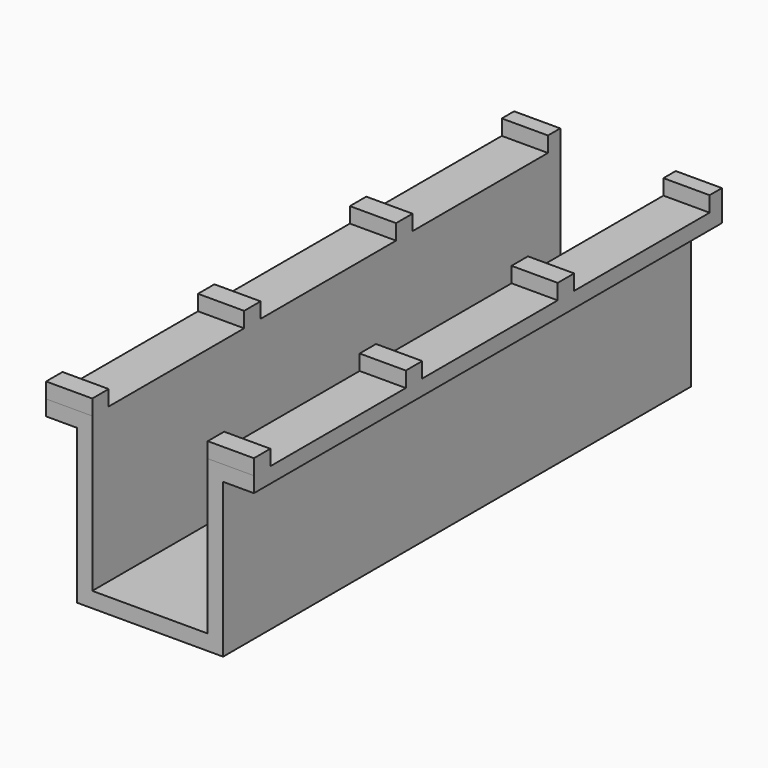
from build123d import *

# Parameters (mm, degrees)
F1_DEPTH      = 100
F2_W          = 3
F2_H          = 1.333333
F2_H_2        = 1.333334
F3_DEPTH      = 1
F4_W          = 23.250002
F4_H          = 62
F5_DEPTH      = 1.001
F5_DEPTH_BACK = 11.001


with BuildPart() as f1:
    # F0 (on Front) → F1 (new body)
    with BuildSketch(Plane.XZ):
        Polygon((3, 0), (0, 0), (0, -1), (2, -1), (2, -11), (11.5, -11), (11.5, -1), (13.5, -1), (13.5, 0), (10.5, 0), (10.5, -10), (3, -10), align=None)
    extrude(amount=F1_DEPTH)

    # F2 (on face) → F3 (join)
    with BuildSketch(Plane.XY):
        with Locations((1.5, -0.666666)):
            Rectangle(F2_W, F2_H)
        with Locations((12, -0.666666)):
            Rectangle(F2_W, F2_H)
        with Locations((1.5, -13)):
            Rectangle(F2_W, F2_H_2)
        with Locations((12, -13)):
            Rectangle(F2_W, F2_H_2)
        with Locations((1.5, -25.333334)):
            Rectangle(F2_W, F2_H)
        with Locations((12, -25.333334)):
            Rectangle(F2_W, F2_H)
        with Locations((1.5, -37.666666)):
            Rectangle(F2_W, F2_H)
        with Locations((12, -37.666666)):
            Rectangle(F2_W, F2_H)
        with Locations((1.5, -50)):
            Rectangle(F2_W, F2_H_2)
        with Locations((12, -50)):
            Rectangle(F2_W, F2_H_2)
        with Locations((1.5, -62.333333)):
            Rectangle(F2_W, F2_H)
        with Locations((12, -62.333333)):
            Rectangle(F2_W, F2_H)
        with Locations((1.5, -74.666666)):
            Rectangle(F2_W, F2_H)
        with Locations((12, -74.666666)):
            Rectangle(F2_W, F2_H)
        with Locations((1.5, -87)):
            Rectangle(F2_W, F2_H_2)
        with Locations((12, -87)):
            Rectangle(F2_W, F2_H_2)
        with Locations((1.5, -99.333333)):
            Rectangle(F2_W, F2_H)
        with Locations((12, -99.333333)):
            Rectangle(F2_W, F2_H)
    extrude(amount=F3_DEPTH)

    # F4 (on Top) → F5 (cut, two sides)
    with BuildSketch(Plane.XY) as f5_sk:
        with Locations((11.625001, -31)):
            Rectangle(F4_W, F4_H)
    extrude(amount=F5_DEPTH, mode=Mode.SUBTRACT)
    extrude(f5_sk.sketch, amount=-F5_DEPTH_BACK, mode=Mode.SUBTRACT)


solid = f1.part
